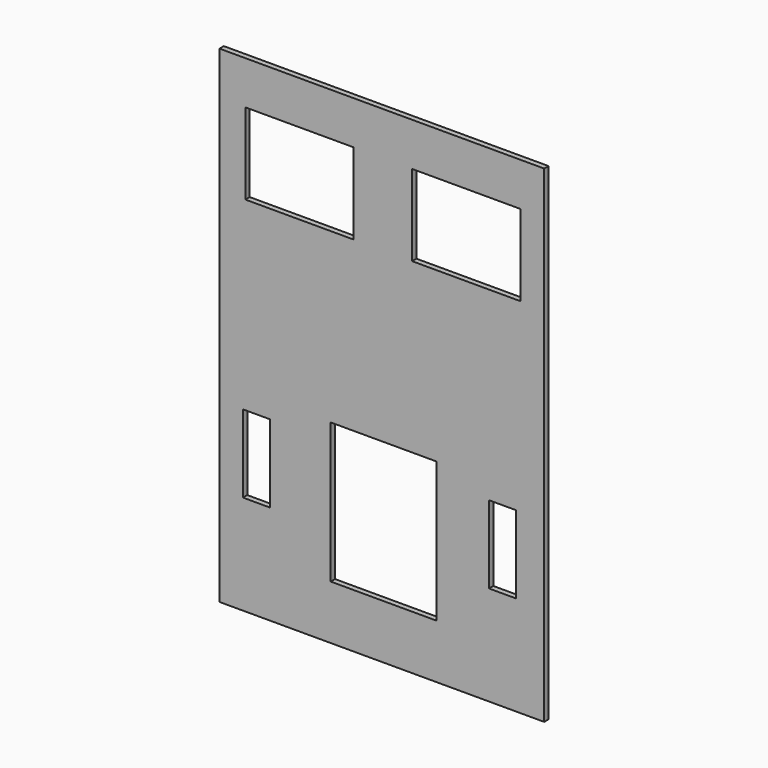
from build123d import *

# Parameters (mm, degrees)
F0_W     = 100
F0_H     = 75
F0_W_2   = 25
F0_H_2   = 71.768835
F0_H_3   = 71.77
F1_DEPTH = 5


with BuildPart() as f1:
    # F0 (on Front) → F1 (new body)
    with BuildSketch(Plane.XZ):
        Polygon((14.091592, 244.709768), (-285.908408, 244.709768), (-285.908408, 129.419536), (-285.908408, 64.709768), (14.091592, 64.709768), (14.091592, 69.656026), align=None)
        with Locations((-211.977881, 167.215428)):
            Rectangle(F0_W, F0_H, mode=Mode.SUBTRACT)
        with Locations((-57.973918, 167.215428)):
            Rectangle(F0_W, F0_H, mode=Mode.SUBTRACT)
        Polygon((14.091592, 64.709768), (-285.908408, 64.709768), (-285.908408, 24.709768), (14.091592, 24.709768), (14.091592, 59.763511), align=None)
        Polygon((14.091592, 24.709768), (-285.908408, 24.709768), (-285.908408, 0), (-285.908408, -205.290232), (-197.684959, -205.290232), (-77.684959, -205.290232), (14.091592, -205.290232), align=None)
        with Locations((-251.720655, -77.47348)):
            Rectangle(F0_W_2, F0_H_2, mode=Mode.SUBTRACT)
        Polygon((-135.837302, -155.290232), (-183.15503, -155.290232), (-183.15503, -25.864778), (-134.315275, -25.864778), (-85.475519, -25.864778), (-85.475519, -155.290232), align=None, mode=Mode.SUBTRACT)
        with Locations((-24.452682, -77.472898)):
            Rectangle(F0_W_2, F0_H_3, mode=Mode.SUBTRACT)
    extrude(amount=F1_DEPTH)


solid = f1.part
